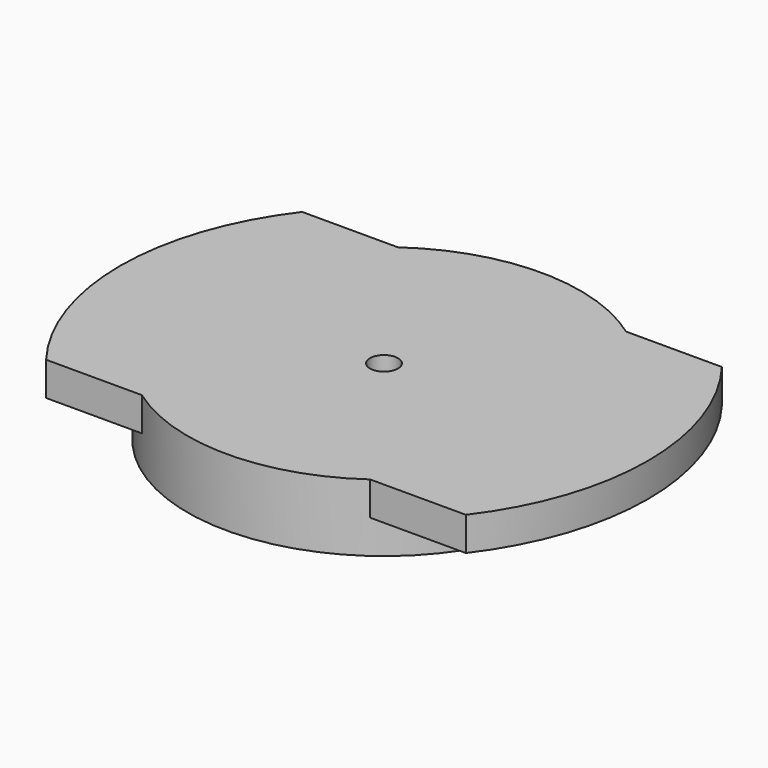
from build123d import *

# Parameters (mm, degrees)
F0_R          = 11.938
F2_DEPTH      = 1.524
F3_DEPTH      = 2.54
F3_DEPTH_BACK = 25.4
F4_R          = 8.89
F5_DEPTH      = 1.524
F6_R          = 8.89
F7_DEPTH      = 1.524
F8_R          = 0.635
F9_DEPTH      = 25.4
F9_DEPTH_BACK = 25.4


with BuildPart() as f2:
    # F0 (on Top) → F2 (new body)
    with BuildSketch(Plane.XY):
        Circle(F0_R)
    extrude(amount=F2_DEPTH)

    # F1 (on face) → F3 (cut, two sides)
    with BuildSketch(Plane.XY) as f3_sk:
        with BuildLine():
            Line((-9.492772, 7.239), (9.492772, 7.239))
            ThreePointArc((9.492772, 7.239), (0, 11.938), (-9.492772, 7.239))
        make_face()
        with BuildLine():
            Line((9.492772, -7.239), (-9.492772, -7.239))
            ThreePointArc((-9.492772, -7.239), (0, -11.938), (9.492772, -7.239))
        make_face()
    extrude(amount=F3_DEPTH, mode=Mode.SUBTRACT)
    extrude(f3_sk.sketch, amount=-F3_DEPTH_BACK, mode=Mode.SUBTRACT)

    # F4 (on face) → F5 (join)
    with BuildSketch(Plane(origin=(0, 0, 0), x_dir=(1, 0, 0), z_dir=(0, 0, -1))):
        Circle(F4_R)
    extrude(amount=-F5_DEPTH)

    # F6 (on face) → F7 (join)
    with BuildSketch(Plane(origin=(0, 0, 0), x_dir=(1, 0, 0), z_dir=(0, 0, -1))):
        Circle(F6_R)
    extrude(amount=F7_DEPTH)

    # F8 (on face) → F9 (cut, two sides)
    with BuildSketch(Plane.XY.offset(1.524)) as f9_sk:
        Circle(F8_R)
    extrude(amount=-F9_DEPTH, mode=Mode.SUBTRACT)
    extrude(f9_sk.sketch, amount=-F9_DEPTH_BACK, mode=Mode.SUBTRACT)


solid = f2.part
